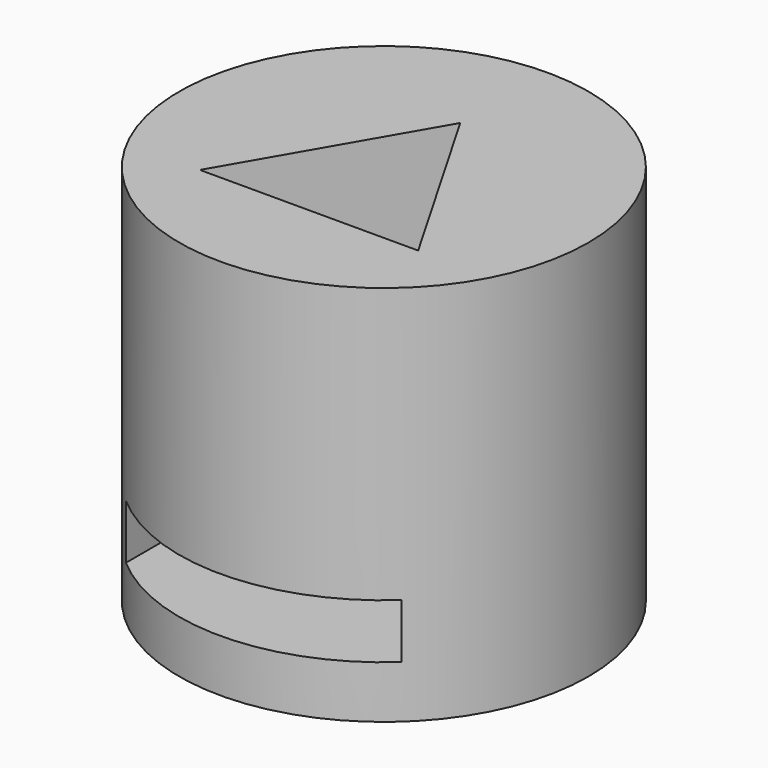
from build123d import *

# Parameters (mm, degrees)
F0_R     = 37.5
F1_DEPTH = 70
F2_R     = 10
F3_DEPTH = 35
F5_DEPTH = 35
F7_W     = 50
F7_H     = 10
F6_DEPTH = 40


with BuildPart() as f1:
    # F0 (on Top) → F1 (new body)
    with BuildSketch(Plane.XY):
        Circle(F0_R)
    extrude(amount=F1_DEPTH)

    # F2 (on face) → F3 (cut)
    with BuildSketch(Plane(origin=(0, 0, 0), x_dir=(1, 0, 0), z_dir=(0, 0, -1))):
        Circle(F2_R)
    extrude(amount=-F3_DEPTH, mode=Mode.SUBTRACT)

    # F4 (on face) → F5 (cut)
    with BuildSketch(Plane.XY.offset(70)):
        Polygon((0, 17.5), (-20, -17.141016), (20, -17.141016), align=None)
    extrude(amount=-F5_DEPTH, mode=Mode.SUBTRACT)

    # F7 (on Front) → F6 (cut, symmetric)
    with BuildSketch(Plane.XZ):
        with Locations((0.330579, 14.619615)):
            Rectangle(F7_W, F7_H)
    extrude(amount=F6_DEPTH, both=True, mode=Mode.SUBTRACT)


solid = f1.part
